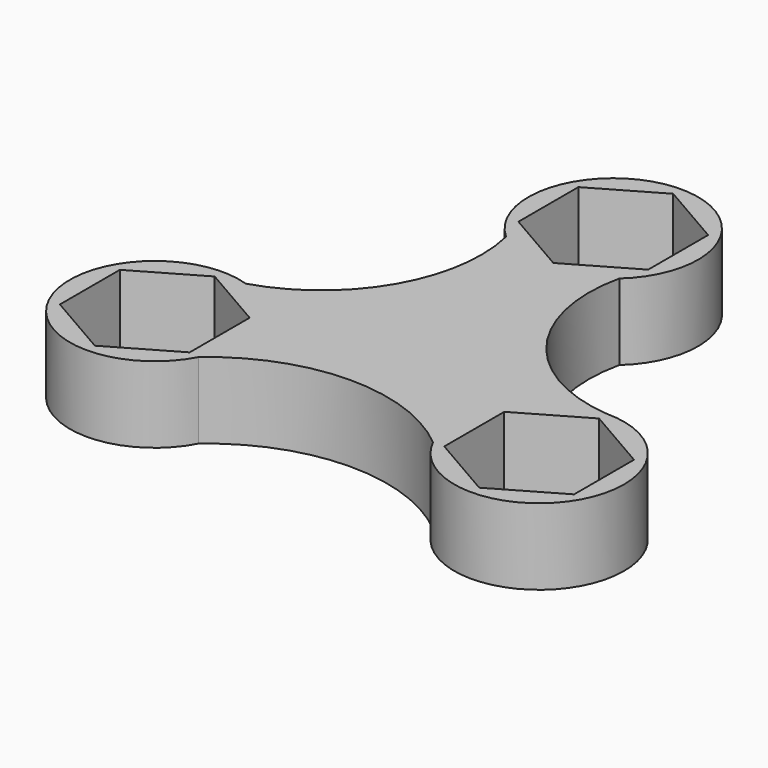
from build123d import *

# Parameters (mm, degrees)
F0_R     = 11.2
F1_DEPTH = 10.922


with BuildPart() as f1:
    # F0 (on Top) → F1 (new body)
    with BuildSketch(Plane.XY):
        with BuildLine():
            ThreePointArc((27.544398, -1.187284), (11.801713, 7.630548), (8.114491, 25.293806))
            ThreePointArc((8.114491, 25.293806), (-0.005482, 46.521012), (-8.10632, 25.286496))
            ThreePointArc((-8.10632, 25.286496), (-10.588692, 8.664306), (-23.742745, -1.796587))
            ThreePointArc((-23.742745, -1.796587), (-38.819024, -17.919048), (-16.77244, -19.003521))
            ThreePointArc((-16.77244, -19.003521), (-0.123642, -12.721114), (16.628972, -18.721202))
            ThreePointArc((16.628972, -18.721202), (37.871363, -19.780711), (27.544398, -1.187284))
        make_face()
        Polygon((-27.544398, -2.613129), (-18.244398, -7.982487), (-18.244398, -18.721202), (-27.544398, -24.090559), (-36.844398, -18.721202), (-36.844398, -7.982487), align=None, mode=Mode.SUBTRACT)
        Polygon((18.244398, -18.721202), (18.244398, -7.982487), (27.544398, -2.613129), (36.844398, -7.982487), (36.844398, -18.721202), (27.544398, -24.090559), align=None, mode=Mode.SUBTRACT)
        Circle(F0_R, mode=Mode.SUBTRACT)
        Polygon((0, 23.617738), (-9.3, 28.987095), (-9.3, 39.72581), (0, 45.095168), (9.3, 39.72581), (9.3, 28.987095), align=None, mode=Mode.SUBTRACT)
        Circle(F0_R)
    extrude(amount=F1_DEPTH)


solid = f1.part
